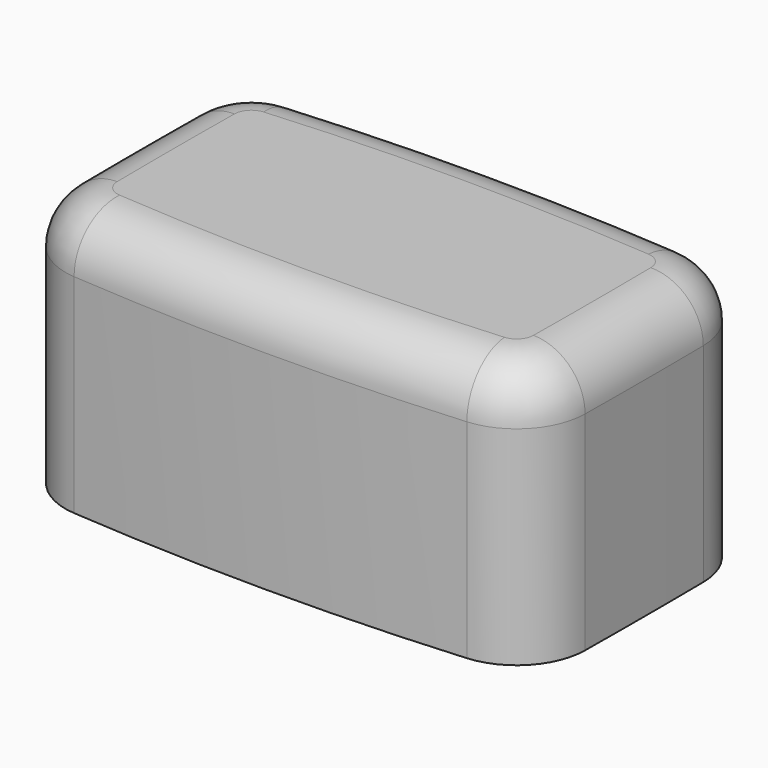
from build123d import *

# Parameters (mm, degrees)
SKETCH023_W  = 3.3
SKETCH023_H  = 2.2
PAD017_DEPTH = 2.5
PAD018_DEPTH = 5.5
FILLET002_R  = 1.1


with BuildPart() as clone_button_hole:
    # Sketch023 → Pad017 (new body)
    with BuildSketch(Plane.XY):
        Rectangle(SKETCH023_W, SKETCH023_H)
    extrude(amount=PAD017_DEPTH)


with BuildPart() as cut_button_med_final:
    # Sketch024 → Pad018 (new body)
    with BuildSketch(Plane.XY):
        with BuildLine():
            ThreePointArc((4.152027, 3), (0, 3.158098), (-4.152027, 3))
            ThreePointArc((-4.152027, 3), (-5.105717, 2.54284), (-5.499998, 1.561482))
            ThreePointArc((-5.499998, 1.561482), (-5.508705, 0), (-5.5, -1.561483))
            ThreePointArc((-5.5, -1.561483), (-5.105718, -2.542841), (-4.152027, -3))
            ThreePointArc((-4.152027, -3), (0, -3.158098), (4.152027, -3))
            ThreePointArc((4.152027, -3), (5.105718, -2.542841), (5.5, -1.561483))
            ThreePointArc((5.5, -1.561483), (5.508705, 0), (5.499998, 1.561482))
            ThreePointArc((5.499998, 1.561482), (5.105717, 2.54284), (4.152027, 3))
        make_face()
    extrude(amount=PAD018_DEPTH)

    # Fillet002
    fillet002_edges = [cut_button_med_final.edges().sort_by_distance(p)[0] for p in [
        (0, 3.158098, 5.5),
        (-5.105717, 2.54284, 5.5),
        (-5.508705, 0, 5.5),
        (-5.105718, -2.542841, 5.5),
        (0, -3.158098, 5.5),
        (5.105718, -2.542841, 5.5),
        (5.508705, 0, 5.5),
        (5.105717, 2.54284, 5.5),
    ]]
    fillet(fillet002_edges, radius=FILLET002_R)

    # Cut005: cut Clone (button hole)
    add(clone_button_hole.part, mode=Mode.SUBTRACT)


solid = cut_button_med_final.part
